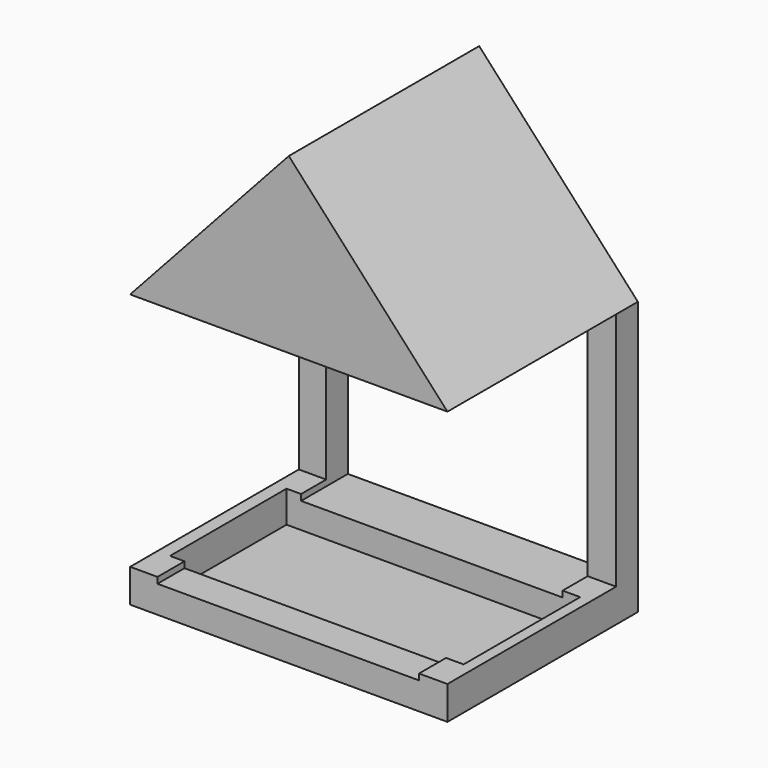
from build123d import *

# Parameters (mm, degrees)
F0_W      = 101.6
F0_H      = 10.6841248744
F1_DEPTH  = 76.2
F2_W      = 101.6
F2_H      = 10.6841248744
F2_H_2    = 76.766988388
F3_DEPTH  = 8.6953
F5_DEPTH  = 76.2
F6_W      = 94.0149463713
F6_H      = 46.6581489891
F7_DEPTH  = 10.16
F9_DEPTH  = 67.5047
F11_DEPTH = 6.35
F12_W     = 83.7408676744
F12_H     = 77.5378420949
F13_DEPTH = 76.201
F15_DEPTH = 12.7


with BuildPart() as f1:
    # F0 (on Front) → F1 (new body)
    with BuildSketch(Plane.XZ):
        with Locations((2.113474533, -32.5691830367)):
            Rectangle(F0_W, F0_H)
    extrude(amount=F1_DEPTH)

    # F2 (on Front) → F3 (join)
    with BuildSketch(Plane.XZ):
        with Locations((2.113474533, -32.5691830367)):
            Rectangle(F2_W, F2_H)
        with Locations((2.113474533, 11.1563735945)):
            Rectangle(F2_W, F2_H_2)
    extrude(amount=F3_DEPTH)

    # F4 (on Front) → F5 (join)
    with BuildSketch(Plane.XZ):
        Polygon((2.113474533, 105.0908565521), (-48.686525467, 49.5398677886), (52.913474533, 49.5398677886), align=None)
    extrude(amount=F5_DEPTH)

    # F6 (on face) → F7 (cut)
    with BuildSketch(Plane.XY.offset(-27.2271205995)):
        with Locations((2.4187173694, -42.054575868)):
            Rectangle(F6_W, F6_H)
    extrude(amount=-F7_DEPTH, mode=Mode.SUBTRACT)

    # F8 (on face) → F9 (cut, through all)
    with BuildSketch(Plane.XZ.offset(76.2)):
        Polygon((0, 91.7181875073), (-38.5710261762, 49.5398677886), (46.1229796213, 49.5398677886), align=None)
    extrude(amount=-F9_DEPTH, mode=Mode.SUBTRACT)

    # F10 (on face) → F11 (join)
    with BuildSketch(Plane.XZ.offset(76.2)):
        Polygon((0, 91.7181875073), (-38.5710261762, 49.5398677886), (46.1229796213, 49.5398677886), align=None)
    extrude(amount=-F11_DEPTH)

    # F12 (on Front) → F13 (cut, through all)
    with BuildSketch(Plane.XZ):
        with Locations((1.9384473562, 9.5993131399)):
            Rectangle(F12_W, F12_H)
    extrude(amount=F13_DEPTH, mode=Mode.SUBTRACT)

    # F14 (on face) → F15 (cut)
    with BuildSketch(Plane(origin=(0, 0, 0), x_dir=(-1, 0, 0), z_dir=(0, 1, 0))):
        Polygon((0, 91.7181875073), (-43.8088811934, 48.3682341874), (39.931986481, 48.3682341874), align=None)
    extrude(amount=-F15_DEPTH, mode=Mode.SUBTRACT)


solid = f1.part
